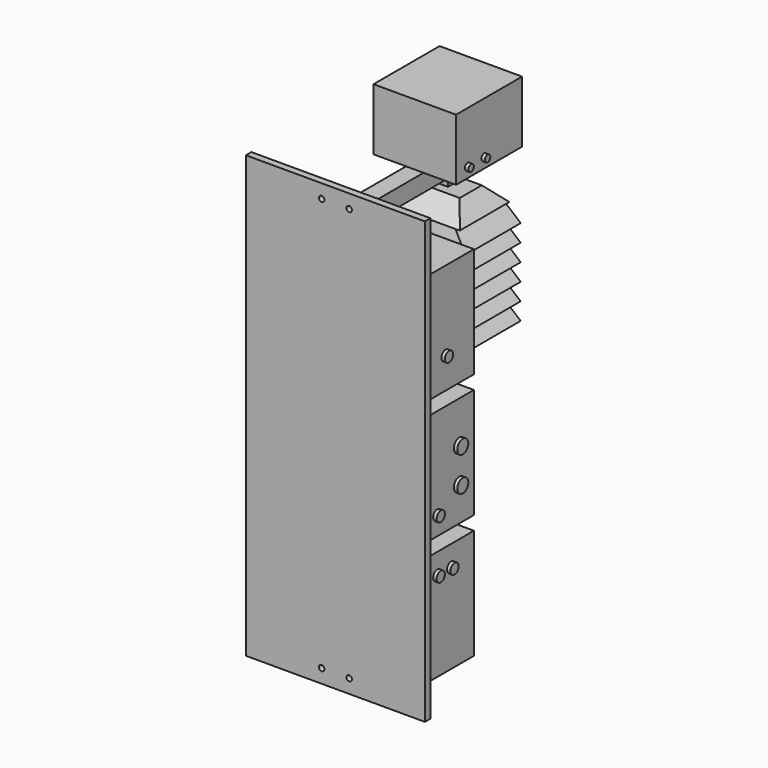
from build123d import *

# Parameters (mm, degrees)
BOX_W                   = 240.03
BOX_H                   = 91.44
BOX_DEPTH               = 160.02
BOX001_W                = 240.03
BOX001_H                = 91.44
BOX001_DEPTH            = 160.02
BOX002_W                = 240.03
BOX002_H                = 91.44
BOX002_DEPTH            = 160.02
BOX003_W                = 119.89
BOX003_H                = 119.89
BOX003_DEPTH            = 89.66
BOX005_W                = 25.4
BOX005_H                = 254
BOX005_DEPTH            = 25.4
BOX018_W                = 15
BOX018_H                = 15
BOX018_DEPTH            = 15
BOX017_W                = 110
BOX017_H                = 120
BOX017_DEPTH            = 46
BOX017_PLACEMENT_ANGLE  = 38.7
BOX016_W                = 110
BOX016_H                = 90
BOX016_DEPTH            = 25
BOX016_PITCH_ANGLE      = -52.3
BOX015_W                = 110
BOX015_H                = 90
BOX015_DEPTH            = 42
BOX015_ROLL_ANGLE       = 45
BOX014_W                = 110
BOX014_H                = 90
BOX014_DEPTH            = 25
BOX014_ROLL_ANGLE       = 45
BOX013_W                = 110
BOX013_H                = 90
BOX013_DEPTH            = 25
CYLINDER_R              = 15
CYLINDER_DEPTH          = 10
CYLINDER001_R           = 10
CYLINDER001_DEPTH       = 10
CYLINDER001_PITCH_ANGLE = 90
CYLINDER002_R           = 10
CYLINDER002_DEPTH       = 10
CYLINDER002_PITCH_ANGLE = 90
CYLINDER003_R           = 7.5
CYLINDER003_DEPTH       = 10
CYLINDER003_PITCH_ANGLE = 90
CYLINDER004_R           = 7.5
CYLINDER004_DEPTH       = 10
CYLINDER004_PITCH_ANGLE = 90
CYLINDER005_R           = 7.5
CYLINDER005_DEPTH       = 10
CYLINDER005_PITCH_ANGLE = 90
CYLINDER006_R           = 7.5
CYLINDER006_DEPTH       = 10
CYLINDER006_PITCH_ANGLE = 90
CYLINDER007_R           = 5
CYLINDER007_DEPTH       = 10
CYLINDER007_PITCH_ANGLE = 90
CYLINDER008_R           = 5
CYLINDER008_DEPTH       = 10
CYLINDER008_PITCH_ANGLE = 90
CYLINDER009_R           = 5
CYLINDER009_DEPTH       = 10
CYLINDER009_PITCH_ANGLE = 90
CYLINDER010_R           = 5
CYLINDER010_DEPTH       = 10
CYLINDER010_PITCH_ANGLE = 90
CYLINDER011_R           = 5
CYLINDER011_DEPTH       = 10
CYLINDER011_PITCH_ANGLE = 90
CYLINDER012_R           = 5
CYLINDER012_DEPTH       = 10
CYLINDER012_PITCH_ANGLE = 90
CYLINDER013_R           = 5
CYLINDER013_DEPTH       = 10
CYLINDER013_PITCH_ANGLE = 90
CYLINDER014_R           = 5
CYLINDER014_DEPTH       = 10
CYLINDER014_PITCH_ANGLE = 90
CYLINDER015_R           = 5
CYLINDER015_DEPTH       = 10
CYLINDER016_R           = 5
CYLINDER016_DEPTH       = 10
BOX026_W                = 200
BOX026_H                = 55
BOX026_DEPTH            = 88
BOX026_ROLL_ANGLE       = 13.5
BOX025_W                = 200
BOX025_H                = 500
BOX025_DEPTH            = 200
BOX025_ROLL_ANGLE       = -13.5
BOX028_W                = 20
BOX028_H                = 500
BOX028_DEPTH            = 200
BOX028_PLACEMENT_ANGLE  = 38.7
BOX024_W                = 135
BOX024_H                = 100
BOX024_DEPTH            = 25
BOX027_W                = 500
BOX027_H                = 500
BOX027_DEPTH            = 500
BOX027_PLACEMENT_ANGLE  = 38.7
BOX031_W                = 200
BOX031_H                = 55
BOX031_DEPTH            = 88
BOX031_ROLL_ANGLE       = 13.5
BOX030_W                = 200
BOX030_H                = 500
BOX030_DEPTH            = 200
BOX030_ROLL_ANGLE       = -13.5
BOX033_W                = 20
BOX033_H                = 500
BOX033_DEPTH            = 200
BOX033_PLACEMENT_ANGLE  = 38.7
BOX029_W                = 135
BOX029_H                = 100
BOX029_DEPTH            = 25
BOX032_W                = 500
BOX032_H                = 500
BOX032_DEPTH            = 500
BOX032_PLACEMENT_ANGLE  = 38.7
BOX036_W                = 200
BOX036_H                = 55
BOX036_DEPTH            = 88
BOX036_ROLL_ANGLE       = 13.5
BOX035_W                = 200
BOX035_H                = 500
BOX035_DEPTH            = 200
BOX035_ROLL_ANGLE       = -13.5
BOX038_W                = 20
BOX038_H                = 500
BOX038_DEPTH            = 200
BOX038_PLACEMENT_ANGLE  = 38.7
BOX034_W                = 135
BOX034_H                = 100
BOX034_DEPTH            = 25
BOX037_W                = 500
BOX037_H                = 500
BOX037_DEPTH            = 500
BOX037_PLACEMENT_ANGLE  = 38.7
BOX012_W                = 200
BOX012_H                = 55
BOX012_DEPTH            = 88
BOX012_ROLL_ANGLE       = 13.5
BOX008_W                = 200
BOX008_H                = 500
BOX008_DEPTH            = 200
BOX008_ROLL_ANGLE       = -13.5
BOX010_W                = 20
BOX010_H                = 500
BOX010_DEPTH            = 200
BOX010_PLACEMENT_ANGLE  = 38.7
BOX009_W                = 135
BOX009_H                = 100
BOX009_DEPTH            = 25
BOX011_W                = 500
BOX011_H                = 500
BOX011_DEPTH            = 500
BOX011_PLACEMENT_ANGLE  = 38.7
BOX023_W                = 200
BOX023_H                = 55
BOX023_DEPTH            = 88
BOX023_ROLL_ANGLE       = 13.5
BOX020_W                = 200
BOX020_H                = 500
BOX020_DEPTH            = 200
BOX020_ROLL_ANGLE       = -13.5
BOX022_W                = 20
BOX022_H                = 500
BOX022_DEPTH            = 200
BOX022_PLACEMENT_ANGLE  = 38.7
BOX019_W                = 135
BOX019_H                = 100
BOX019_DEPTH            = 25
BOX021_W                = 500
BOX021_H                = 500
BOX021_DEPTH            = 500
BOX021_PLACEMENT_ANGLE  = 38.7
BOX039_W                = 50
BOX039_H                = 10
BOX039_DEPTH            = 40
CYLINDER018_R           = 4
CYLINDER018_DEPTH       = 10
CYLINDER018_ROLL_ANGLE  = 90
CYLINDER017_R           = 4
CYLINDER017_DEPTH       = 10
CYLINDER017_ROLL_ANGLE  = 90
BOX006_W                = 260.03
BOX006_H                = 10
BOX006_DEPTH            = 640


with BuildPart() as power_module:
    # Box → Box (new body)
    with BuildSketch(Plane.XY):
        with Locations((120.015, 45.72)):
            Rectangle(BOX_W, BOX_H)
    extrude(amount=BOX_DEPTH)


with BuildPart() as main_module:
    # Box001 → Box001 (new body)
    with BuildSketch(Plane.XY.offset(180)):
        with Locations((120.015, 45.72)):
            Rectangle(BOX001_W, BOX001_H)
    extrude(amount=BOX001_DEPTH)


with BuildPart() as ozone_module:
    # Box002 → Box002 (new body)
    with BuildSketch(Plane.XY.offset(360)):
        with Locations((120.015, 45.72)):
            Rectangle(BOX002_W, BOX002_H)
    extrude(amount=BOX002_DEPTH)


with BuildPart() as light_module:
    # Box003 → Box003 (new body)
    with BuildSketch(Plane(origin=(60.05, 134.1, 565.4), x_dir=(1, 0, 0), z_dir=(0, 0, 1))):
        with Locations((59.945, 59.945)):
            Rectangle(BOX003_W, BOX003_H)
    extrude(amount=BOX003_DEPTH)


with BuildPart() as railing:
    # Box005 → Box005 (new body)
    with BuildSketch(Plane(origin=(107.3, 0, 540), x_dir=(1, 0, 0), z_dir=(0, 0, 1))):
        with Locations((12.7, 127)):
            Rectangle(BOX005_W, BOX005_H)
    extrude(amount=BOX005_DEPTH)


with BuildPart() as cube009:
    # Box018 → Box018 (new body)
    with BuildSketch(Plane(origin=(112.5, 185, 525), x_dir=(1, 0, 0), z_dir=(0, 0, 1))):
        with Locations((7.5, 7.5)):
            Rectangle(BOX018_W, BOX018_H)
    extrude(amount=BOX018_DEPTH)


with BuildPart() as cube008:
    # Box017 → Box017 (new body)
    with BuildSketch(Plane.XY):
        with Locations((55, 60)):
            Rectangle(BOX017_W, BOX017_H)
    extrude(amount=BOX017_DEPTH)


with BuildPart() as cube008_1:
    # Box017 placement: moved
    add(cube008.part.moved(Location((421, -226, 0))).rotate(Axis((421, -226, 0), (0, -1, 0)), BOX017_PLACEMENT_ANGLE))


with BuildPart() as cube007:
    # Box016 → Box016 (new body)
    with BuildSketch(Plane.XY):
        with Locations((55, 45)):
            Rectangle(BOX016_W, BOX016_H)
    extrude(amount=BOX016_DEPTH)


with BuildPart() as cube007_1:
    # Box016 pitch: moved
    add(cube007.part.rotate(Axis((0, 0, 0), (0, 1, 0)), BOX016_PITCH_ANGLE))


with BuildPart() as cube007_2:
    # Box016 placement: moved
    add(cube007_1.part.moved(Location((311, -226, 0))))


with BuildPart() as cube006:
    # Box015 → Box015 (new body)
    with BuildSketch(Plane.XY):
        with Locations((55, 45)):
            Rectangle(BOX015_W, BOX015_H)
    extrude(amount=BOX015_DEPTH)


with BuildPart() as cube006_1:
    # Box015 roll: moved
    add(cube006.part.rotate(Axis((0, 0, 0), (1, 0, 0)), BOX015_ROLL_ANGLE))


with BuildPart() as cube006_2:
    # Box015 placement: moved
    add(cube006_1.part.moved(Location((311, -136, 0))))


with BuildPart() as cube005:
    # Box014 → Box014 (new body)
    with BuildSketch(Plane.XY):
        with Locations((55, 45)):
            Rectangle(BOX014_W, BOX014_H)
    extrude(amount=BOX014_DEPTH)


with BuildPart() as cube005_1:
    # Box014 roll: moved
    add(cube005.part.rotate(Axis((0, 0, 0), (1, 0, 0)), BOX014_ROLL_ANGLE))


with BuildPart() as cube005_2:
    # Box014 placement: moved
    add(cube005_1.part.moved(Location((311, -226, 0))))


with BuildPart() as obj1:
    # Box013 → Box013 (new body)
    with BuildSketch(Plane(origin=(311, -226, 0), x_dir=(1, 0, 0), z_dir=(0, 0, 1))):
        with Locations((55, 45)):
            Rectangle(BOX013_W, BOX013_H)
    extrude(amount=BOX013_DEPTH)

    # Cut002: cut Cube005
    add(cube005_2.part, mode=Mode.SUBTRACT)

    # Cut003: cut Cube006
    add(cube006_2.part, mode=Mode.SUBTRACT)

    # Cut004: cut Cube007
    add(cube007_2.part, mode=Mode.SUBTRACT)

    # Cut005: cut Cube008
    add(cube008_1.part, mode=Mode.SUBTRACT)


with BuildPart() as obj1_1:
    # Cut005 placement: moved
    add(obj1.part.moved(Location((-246, 373, 500))))


with BuildPart() as cylinder:
    # Cylinder → Cylinder (new body)
    with BuildSketch(Plane(origin=(185, 53, 0), x_dir=(-1, 0, 0), z_dir=(0, 0, -1))):
        Circle(CYLINDER_R)
    extrude(amount=CYLINDER_DEPTH)


with BuildPart() as usb:
    # Cylinder001 → Cylinder001 (new body)
    with BuildSketch(Plane.XY):
        Circle(CYLINDER001_R)
    extrude(amount=CYLINDER001_DEPTH)


with BuildPart() as usb_1:
    # Cylinder001 pitch: moved
    add(usb.part.rotate(Axis((0, 0, 0), (0, 1, 0)), CYLINDER001_PITCH_ANGLE))


with BuildPart() as usb_2:
    # Cylinder001 placement: moved
    add(usb_1.part.moved(Location((235, 65, 230))))


with BuildPart() as hdmi:
    # Cylinder002 → Cylinder002 (new body)
    with BuildSketch(Plane.XY):
        Circle(CYLINDER002_R)
    extrude(amount=CYLINDER002_DEPTH)


with BuildPart() as hdmi_1:
    # Cylinder002 pitch: moved
    add(hdmi.part.rotate(Axis((0, 0, 0), (0, 1, 0)), CYLINDER002_PITCH_ANGLE))


with BuildPart() as hdmi_2:
    # Cylinder002 placement: moved
    add(hdmi_1.part.moved(Location((235, 65, 280))))


with BuildPart() as f_12v:
    # Cylinder003 → Cylinder003 (new body)
    with BuildSketch(Plane.XY):
        Circle(CYLINDER003_R)
    extrude(amount=CYLINDER003_DEPTH)


with BuildPart() as f_12v_1:
    # Cylinder003 pitch: moved
    add(f_12v.part.rotate(Axis((0, 0, 0), (0, 1, 0)), CYLINDER003_PITCH_ANGLE))


with BuildPart() as f_12v_2:
    # Cylinder003 placement: moved
    add(f_12v_1.part.moved(Location((235, 50, 130))))


with BuildPart() as f_5v:
    # Cylinder004 → Cylinder004 (new body)
    with BuildSketch(Plane.XY):
        Circle(CYLINDER004_R)
    extrude(amount=CYLINDER004_DEPTH)


with BuildPart() as f_5v_1:
    # Cylinder004 pitch: moved
    add(f_5v.part.rotate(Axis((0, 0, 0), (0, 1, 0)), CYLINDER004_PITCH_ANGLE))


with BuildPart() as f_5v_2:
    # Cylinder004 placement: moved
    add(f_5v_1.part.moved(Location((235, 25, 130))))


with BuildPart() as cylinder005:
    # Cylinder005 → Cylinder005 (new body)
    with BuildSketch(Plane.XY):
        Circle(CYLINDER005_R)
    extrude(amount=CYLINDER005_DEPTH)


with BuildPart() as cylinder005_1:
    # Cylinder005 pitch: moved
    add(cylinder005.part.rotate(Axis((0, 0, 0), (0, 1, 0)), CYLINDER005_PITCH_ANGLE))


with BuildPart() as cylinder005_2:
    # Cylinder005 placement: moved
    add(cylinder005_1.part.moved(Location((235, 25, 207))))


with BuildPart() as cylinder006:
    # Cylinder006 → Cylinder006 (new body)
    with BuildSketch(Plane.XY):
        Circle(CYLINDER006_R)
    extrude(amount=CYLINDER006_DEPTH)


with BuildPart() as cylinder006_1:
    # Cylinder006 pitch: moved
    add(cylinder006.part.rotate(Axis((0, 0, 0), (0, 1, 0)), CYLINDER006_PITCH_ANGLE))


with BuildPart() as cylinder006_2:
    # Cylinder006 placement: moved
    add(cylinder006_1.part.moved(Location((235, 40, 405))))


with BuildPart() as lightmoduleusb:
    # Cylinder007 → Cylinder007 (new body)
    with BuildSketch(Plane.XY):
        Circle(CYLINDER007_R)
    extrude(amount=CYLINDER007_DEPTH)


with BuildPart() as lightmoduleusb_1:
    # Cylinder007 pitch: moved
    add(lightmoduleusb.part.rotate(Axis((0, 0, 0), (0, 1, 0)), CYLINDER007_PITCH_ANGLE))


with BuildPart() as lightmoduleusb_2:
    # Cylinder007 placement: moved
    add(lightmoduleusb_1.part.moved(Location((-5, 75, 310))))


with BuildPart() as obj2:
    # Cylinder008 → Cylinder008 (new body)
    with BuildSketch(Plane.XY):
        Circle(CYLINDER008_R)
    extrude(amount=CYLINDER008_DEPTH)


with BuildPart() as obj2_1:
    # Cylinder008 pitch: moved
    add(obj2.part.rotate(Axis((0, 0, 0), (0, 1, 0)), CYLINDER008_PITCH_ANGLE))


with BuildPart() as obj2_2:
    # Cylinder008 placement: moved
    add(obj2_1.part.moved(Location((-5, 55, 260))))


with BuildPart() as obj3:
    # Cylinder009 → Cylinder009 (new body)
    with BuildSketch(Plane.XY):
        Circle(CYLINDER009_R)
    extrude(amount=CYLINDER009_DEPTH)


with BuildPart() as obj3_1:
    # Cylinder009 pitch: moved
    add(obj3.part.rotate(Axis((0, 0, 0), (0, 1, 0)), CYLINDER009_PITCH_ANGLE))


with BuildPart() as obj3_2:
    # Cylinder009 placement: moved
    add(obj3_1.part.moved(Location((-5, 45, 235))))


with BuildPart() as obj4:
    # Cylinder010 → Cylinder010 (new body)
    with BuildSketch(Plane.XY):
        Circle(CYLINDER010_R)
    extrude(amount=CYLINDER010_DEPTH)


with BuildPart() as obj4_1:
    # Cylinder010 pitch: moved
    add(obj4.part.rotate(Axis((0, 0, 0), (0, 1, 0)), CYLINDER010_PITCH_ANGLE))


with BuildPart() as obj4_2:
    # Cylinder010 placement: moved
    add(obj4_1.part.moved(Location((-5, 35, 210))))


with BuildPart() as camerausb:
    # Cylinder011 → Cylinder011 (new body)
    with BuildSketch(Plane.XY):
        Circle(CYLINDER011_R)
    extrude(amount=CYLINDER011_DEPTH)


with BuildPart() as camerausb_1:
    # Cylinder011 pitch: moved
    add(camerausb.part.rotate(Axis((0, 0, 0), (0, 1, 0)), CYLINDER011_PITCH_ANGLE))


with BuildPart() as camerausb_2:
    # Cylinder011 placement: moved
    add(camerausb_1.part.moved(Location((-5, 65, 285))))


with BuildPart() as cylinder012:
    # Cylinder012 → Cylinder012 (new body)
    with BuildSketch(Plane.XY):
        Circle(CYLINDER012_R)
    extrude(amount=CYLINDER012_DEPTH)


with BuildPart() as cylinder012_1:
    # Cylinder012 pitch: moved
    add(cylinder012.part.rotate(Axis((0, 0, 0), (0, 1, 0)), CYLINDER012_PITCH_ANGLE))


with BuildPart() as cylinder012_2:
    # Cylinder012 placement: moved
    add(cylinder012_1.part.moved(Location((-5, 35, 380))))


with BuildPart() as cylinder013:
    # Cylinder013 → Cylinder013 (new body)
    with BuildSketch(Plane.XY):
        Circle(CYLINDER013_R)
    extrude(amount=CYLINDER013_DEPTH)


with BuildPart() as cylinder013_1:
    # Cylinder013 pitch: moved
    add(cylinder013.part.rotate(Axis((0, 0, 0), (0, 1, 0)), CYLINDER013_PITCH_ANGLE))


with BuildPart() as cylinder013_2:
    # Cylinder013 placement: moved
    add(cylinder013_1.part.moved(Location((175, 155, 580))))


with BuildPart() as cylinder014:
    # Cylinder014 → Cylinder014 (new body)
    with BuildSketch(Plane.XY):
        Circle(CYLINDER014_R)
    extrude(amount=CYLINDER014_DEPTH)


with BuildPart() as cylinder014_1:
    # Cylinder014 pitch: moved
    add(cylinder014.part.rotate(Axis((0, 0, 0), (0, 1, 0)), CYLINDER014_PITCH_ANGLE))


with BuildPart() as cylinder014_2:
    # Cylinder014 placement: moved
    add(cylinder014_1.part.moved(Location((175, 185, 580))))


with BuildPart() as cylinder015:
    # Cylinder015 → Cylinder015 (new body)
    with BuildSketch(Plane(origin=(145, 195, 355), x_dir=(-1, 0, 0), z_dir=(0, 0, -1))):
        Circle(CYLINDER015_R)
    extrude(amount=CYLINDER015_DEPTH)


with BuildPart() as cylinder016:
    # Cylinder016 → Cylinder016 (new body)
    with BuildSketch(Plane(origin=(95, 195, 355), x_dir=(-1, 0, 0), z_dir=(0, 0, -1))):
        Circle(CYLINDER016_R)
    extrude(amount=CYLINDER016_DEPTH)


with BuildPart() as cube015:
    # Box026 → Box026 (new body)
    with BuildSketch(Plane.XY):
        with Locations((100, 27.5)):
            Rectangle(BOX026_W, BOX026_H)
    extrude(amount=BOX026_DEPTH)


with BuildPart() as cube015_1:
    # Box026 roll: moved
    add(cube015.part.rotate(Axis((0, 0, 0), (1, 0, 0)), BOX026_ROLL_ANGLE))


with BuildPart() as cube015_2:
    # Box026 placement: moved
    add(cube015_1.part.moved(Location((-33, -126, 0))))


with BuildPart() as cube014:
    # Box025 → Box025 (new body)
    with BuildSketch(Plane.XY):
        with Locations((100, 250)):
            Rectangle(BOX025_W, BOX025_H)
    extrude(amount=BOX025_DEPTH)


with BuildPart() as cube014_1:
    # Box025 roll: moved
    add(cube014.part.rotate(Axis((0, 0, 0), (1, 0, 0)), BOX025_ROLL_ANGLE))


with BuildPart() as cube014_2:
    # Box025 placement: moved
    add(cube014_1.part.moved(Location((-22, -226, 0))))


with BuildPart() as cube017:
    # Box028 → Box028 (new body)
    with BuildSketch(Plane.XY):
        with Locations((10, 250)):
            Rectangle(BOX028_W, BOX028_H)
    extrude(amount=BOX028_DEPTH)


with BuildPart() as cube017_1:
    # Box028 placement: moved
    add(cube017.part.moved(Location((135, -236, 0))).rotate(Axis((135, -236, 0), (0, -1, 0)), BOX028_PLACEMENT_ANGLE))


with BuildPart() as cut008:
    # Box024 → Box024 (new body)
    with BuildSketch(Plane(origin=(0, -226, 0), x_dir=(1, 0, 0), z_dir=(0, 0, 1))):
        with Locations((67.5, 50)):
            Rectangle(BOX024_W, BOX024_H)
    extrude(amount=BOX024_DEPTH)

    # Cut008: cut Cube017
    add(cube017_1.part, mode=Mode.SUBTRACT)


with BuildPart() as enclosure_common002:
    # Box027 → Box027 (new body)
    with BuildSketch(Plane.XY):
        with Locations((250, 250)):
            Rectangle(BOX027_W, BOX027_H)
    extrude(amount=BOX027_DEPTH)


with BuildPart() as enclosure_common002_1:
    # Box027 placement: moved
    add(enclosure_common002.part.moved(Location((0, -236, 0))).rotate(Axis((0, -236, 0), (0, 1, 0)), BOX027_PLACEMENT_ANGLE))

    # Common005: intersect Cut008
    add(cut008.part, mode=Mode.INTERSECT)

    # Common004: intersect Cube014
    add(cube014_2.part, mode=Mode.INTERSECT)

    # Cut009: cut Cube015
    add(cube015_2.part, mode=Mode.SUBTRACT)


with BuildPart() as enclosure_common002_2:
    # Cut009 placement: moved
    add(enclosure_common002_1.part.moved(Location((52.5, 368, 425))))


with BuildPart() as cube019:
    # Box031 → Box031 (new body)
    with BuildSketch(Plane.XY):
        with Locations((100, 27.5)):
            Rectangle(BOX031_W, BOX031_H)
    extrude(amount=BOX031_DEPTH)


with BuildPart() as cube019_1:
    # Box031 roll: moved
    add(cube019.part.rotate(Axis((0, 0, 0), (1, 0, 0)), BOX031_ROLL_ANGLE))


with BuildPart() as cube019_2:
    # Box031 placement: moved
    add(cube019_1.part.moved(Location((-33, -126, 0))))


with BuildPart() as cube018:
    # Box030 → Box030 (new body)
    with BuildSketch(Plane.XY):
        with Locations((100, 250)):
            Rectangle(BOX030_W, BOX030_H)
    extrude(amount=BOX030_DEPTH)


with BuildPart() as cube018_1:
    # Box030 roll: moved
    add(cube018.part.rotate(Axis((0, 0, 0), (1, 0, 0)), BOX030_ROLL_ANGLE))


with BuildPart() as cube018_2:
    # Box030 placement: moved
    add(cube018_1.part.moved(Location((-22, -226, 0))))


with BuildPart() as cube021:
    # Box033 → Box033 (new body)
    with BuildSketch(Plane.XY):
        with Locations((10, 250)):
            Rectangle(BOX033_W, BOX033_H)
    extrude(amount=BOX033_DEPTH)


with BuildPart() as cube021_1:
    # Box033 placement: moved
    add(cube021.part.moved(Location((135, -236, 0))).rotate(Axis((135, -236, 0), (0, -1, 0)), BOX033_PLACEMENT_ANGLE))


with BuildPart() as cut010:
    # Box029 → Box029 (new body)
    with BuildSketch(Plane(origin=(0, -226, 0), x_dir=(1, 0, 0), z_dir=(0, 0, 1))):
        with Locations((67.5, 50)):
            Rectangle(BOX029_W, BOX029_H)
    extrude(amount=BOX029_DEPTH)

    # Cut010: cut Cube021
    add(cube021_1.part, mode=Mode.SUBTRACT)


with BuildPart() as enclosure_common003:
    # Box032 → Box032 (new body)
    with BuildSketch(Plane.XY):
        with Locations((250, 250)):
            Rectangle(BOX032_W, BOX032_H)
    extrude(amount=BOX032_DEPTH)


with BuildPart() as enclosure_common003_1:
    # Box032 placement: moved
    add(enclosure_common003.part.moved(Location((0, -236, 0))).rotate(Axis((0, -236, 0), (0, 1, 0)), BOX032_PLACEMENT_ANGLE))

    # Common007: intersect Cut010
    add(cut010.part, mode=Mode.INTERSECT)

    # Common006: intersect Cube018
    add(cube018_2.part, mode=Mode.INTERSECT)

    # Cut011: cut Cube019
    add(cube019_2.part, mode=Mode.SUBTRACT)


with BuildPart() as enclosure_common003_2:
    # Cut011 placement: moved
    add(enclosure_common003_1.part.moved(Location((52.5, 368, 400))))


with BuildPart() as cube023:
    # Box036 → Box036 (new body)
    with BuildSketch(Plane.XY):
        with Locations((100, 27.5)):
            Rectangle(BOX036_W, BOX036_H)
    extrude(amount=BOX036_DEPTH)


with BuildPart() as cube023_1:
    # Box036 roll: moved
    add(cube023.part.rotate(Axis((0, 0, 0), (1, 0, 0)), BOX036_ROLL_ANGLE))


with BuildPart() as cube023_2:
    # Box036 placement: moved
    add(cube023_1.part.moved(Location((-33, -126, 0))))


with BuildPart() as cube022:
    # Box035 → Box035 (new body)
    with BuildSketch(Plane.XY):
        with Locations((100, 250)):
            Rectangle(BOX035_W, BOX035_H)
    extrude(amount=BOX035_DEPTH)


with BuildPart() as cube022_1:
    # Box035 roll: moved
    add(cube022.part.rotate(Axis((0, 0, 0), (1, 0, 0)), BOX035_ROLL_ANGLE))


with BuildPart() as cube022_2:
    # Box035 placement: moved
    add(cube022_1.part.moved(Location((-22, -226, 0))))


with BuildPart() as cube025:
    # Box038 → Box038 (new body)
    with BuildSketch(Plane.XY):
        with Locations((10, 250)):
            Rectangle(BOX038_W, BOX038_H)
    extrude(amount=BOX038_DEPTH)


with BuildPart() as cube025_1:
    # Box038 placement: moved
    add(cube025.part.moved(Location((135, -236, 0))).rotate(Axis((135, -236, 0), (0, -1, 0)), BOX038_PLACEMENT_ANGLE))


with BuildPart() as cut012:
    # Box034 → Box034 (new body)
    with BuildSketch(Plane(origin=(0, -226, 0), x_dir=(1, 0, 0), z_dir=(0, 0, 1))):
        with Locations((67.5, 50)):
            Rectangle(BOX034_W, BOX034_H)
    extrude(amount=BOX034_DEPTH)

    # Cut012: cut Cube025
    add(cube025_1.part, mode=Mode.SUBTRACT)


with BuildPart() as enclosure_common004:
    # Box037 → Box037 (new body)
    with BuildSketch(Plane.XY):
        with Locations((250, 250)):
            Rectangle(BOX037_W, BOX037_H)
    extrude(amount=BOX037_DEPTH)


with BuildPart() as enclosure_common004_1:
    # Box037 placement: moved
    add(enclosure_common004.part.moved(Location((0, -236, 0))).rotate(Axis((0, -236, 0), (0, 1, 0)), BOX037_PLACEMENT_ANGLE))

    # Common009: intersect Cut012
    add(cut012.part, mode=Mode.INTERSECT)

    # Common008: intersect Cube022
    add(cube022_2.part, mode=Mode.INTERSECT)

    # Cut013: cut Cube023
    add(cube023_2.part, mode=Mode.SUBTRACT)


with BuildPart() as enclosure_common004_2:
    # Cut013 placement: moved
    add(enclosure_common004_1.part.moved(Location((52.5, 368, 375))))


with BuildPart() as cube003:
    # Box012 → Box012 (new body)
    with BuildSketch(Plane.XY):
        with Locations((100, 27.5)):
            Rectangle(BOX012_W, BOX012_H)
    extrude(amount=BOX012_DEPTH)


with BuildPart() as cube003_1:
    # Box012 roll: moved
    add(cube003.part.rotate(Axis((0, 0, 0), (1, 0, 0)), BOX012_ROLL_ANGLE))


with BuildPart() as cube003_2:
    # Box012 placement: moved
    add(cube003_1.part.moved(Location((-33, -126, 0))))


with BuildPart() as cube001:
    # Box008 → Box008 (new body)
    with BuildSketch(Plane.XY):
        with Locations((100, 250)):
            Rectangle(BOX008_W, BOX008_H)
    extrude(amount=BOX008_DEPTH)


with BuildPart() as cube001_1:
    # Box008 roll: moved
    add(cube001.part.rotate(Axis((0, 0, 0), (1, 0, 0)), BOX008_ROLL_ANGLE))


with BuildPart() as cube001_2:
    # Box008 placement: moved
    add(cube001_1.part.moved(Location((-22, -226, 0))))


with BuildPart() as cube:
    # Box010 → Box010 (new body)
    with BuildSketch(Plane.XY):
        with Locations((10, 250)):
            Rectangle(BOX010_W, BOX010_H)
    extrude(amount=BOX010_DEPTH)


with BuildPart() as cube_1:
    # Box010 placement: moved
    add(cube.part.moved(Location((135, -236, 0))).rotate(Axis((135, -236, 0), (0, -1, 0)), BOX010_PLACEMENT_ANGLE))


with BuildPart() as cut:
    # Box009 → Box009 (new body)
    with BuildSketch(Plane(origin=(0, -226, 0), x_dir=(1, 0, 0), z_dir=(0, 0, 1))):
        with Locations((67.5, 50)):
            Rectangle(BOX009_W, BOX009_H)
    extrude(amount=BOX009_DEPTH)

    # Cut: cut Cube
    add(cube_1.part, mode=Mode.SUBTRACT)


with BuildPart() as common001:
    # Box011 → Box011 (new body)
    with BuildSketch(Plane.XY):
        with Locations((250, 250)):
            Rectangle(BOX011_W, BOX011_H)
    extrude(amount=BOX011_DEPTH)


with BuildPart() as common001_1:
    # Box011 placement: moved
    add(common001.part.moved(Location((0, -236, 0))).rotate(Axis((0, -236, 0), (0, 1, 0)), BOX011_PLACEMENT_ANGLE))

    # Common: intersect Cut
    add(cut.part, mode=Mode.INTERSECT)

    # Common001: intersect Cube001
    add(cube001_2.part, mode=Mode.INTERSECT)


with BuildPart() as enclosure_common005:
    # Cut014 base: copy of Common001
    add(common001_1.part)

    # Cut014: cut Cube003
    add(cube003_2.part, mode=Mode.SUBTRACT)


with BuildPart() as enclosure_common005_1:
    # Cut014 placement: moved
    add(enclosure_common005.part.moved(Location((52.5, 368, 350))))


with BuildPart() as enclosure_common000:
    # Cut001 base: copy of Common001
    add(common001_1.part)

    # Cut001: cut Cube003
    add(cube003_2.part, mode=Mode.SUBTRACT)


with BuildPart() as enclosure_common000_1:
    # Cut001 placement: moved
    add(enclosure_common000.part.moved(Location((52.5, 368, 475))))


with BuildPart() as cube013:
    # Box023 → Box023 (new body)
    with BuildSketch(Plane.XY):
        with Locations((100, 27.5)):
            Rectangle(BOX023_W, BOX023_H)
    extrude(amount=BOX023_DEPTH)


with BuildPart() as cube013_1:
    # Box023 roll: moved
    add(cube013.part.rotate(Axis((0, 0, 0), (1, 0, 0)), BOX023_ROLL_ANGLE))


with BuildPart() as cube013_2:
    # Box023 placement: moved
    add(cube013_1.part.moved(Location((-33, -126, 0))))


with BuildPart() as cube010:
    # Box020 → Box020 (new body)
    with BuildSketch(Plane.XY):
        with Locations((100, 250)):
            Rectangle(BOX020_W, BOX020_H)
    extrude(amount=BOX020_DEPTH)


with BuildPart() as cube010_1:
    # Box020 roll: moved
    add(cube010.part.rotate(Axis((0, 0, 0), (1, 0, 0)), BOX020_ROLL_ANGLE))


with BuildPart() as cube010_2:
    # Box020 placement: moved
    add(cube010_1.part.moved(Location((-22, -226, 0))))


with BuildPart() as cube012:
    # Box022 → Box022 (new body)
    with BuildSketch(Plane.XY):
        with Locations((10, 250)):
            Rectangle(BOX022_W, BOX022_H)
    extrude(amount=BOX022_DEPTH)


with BuildPart() as cube012_1:
    # Box022 placement: moved
    add(cube012.part.moved(Location((135, -236, 0))).rotate(Axis((135, -236, 0), (0, -1, 0)), BOX022_PLACEMENT_ANGLE))


with BuildPart() as cut007:
    # Box019 → Box019 (new body)
    with BuildSketch(Plane(origin=(0, -226, 0), x_dir=(1, 0, 0), z_dir=(0, 0, 1))):
        with Locations((67.5, 50)):
            Rectangle(BOX019_W, BOX019_H)
    extrude(amount=BOX019_DEPTH)

    # Cut007: cut Cube012
    add(cube012_1.part, mode=Mode.SUBTRACT)


with BuildPart() as fusion001:
    # Box021 → Box021 (new body)
    with BuildSketch(Plane.XY):
        with Locations((250, 250)):
            Rectangle(BOX021_W, BOX021_H)
    extrude(amount=BOX021_DEPTH)


with BuildPart() as fusion001_1:
    # Box021 placement: moved
    add(fusion001.part.moved(Location((0, -236, 0))).rotate(Axis((0, -236, 0), (0, 1, 0)), BOX021_PLACEMENT_ANGLE))

    # Common002: intersect Cut007
    add(cut007.part, mode=Mode.INTERSECT)

    # Common003: intersect Cube010
    add(cube010_2.part, mode=Mode.INTERSECT)

    # Cut006: cut Cube013
    add(cube013_2.part, mode=Mode.SUBTRACT)


with BuildPart() as fusion001_2:
    # Cut006 placement: moved
    add(fusion001_1.part.moved(Location((52.5, 368, 450))))

    # Fusion001: union Enclosure Common002, Enclosure Common003, Enclosure Common004, Enclosure Common005, Enclosure Common000
    add(enclosure_common002_2.part)
    add(enclosure_common003_2.part)
    add(enclosure_common004_2.part)
    add(enclosure_common005_1.part)
    add(enclosure_common000_1.part)


with BuildPart() as obj5:
    # Box039 → Box039 (new body)
    with BuildSketch(Plane(origin=(10, 85, 190), x_dir=(1, 0, 0), z_dir=(0, 0, 1))):
        with Locations((25, 5)):
            Rectangle(BOX039_W, BOX039_H)
    extrude(amount=BOX039_DEPTH)


with BuildPart() as cutout001:
    # Cylinder018 → Cylinder018 (new body)
    with BuildSketch(Plane.XY):
        Circle(CYLINDER018_R)
    extrude(amount=CYLINDER018_DEPTH)


with BuildPart() as cutout001_1:
    # Cylinder018 roll: moved
    add(cutout001.part.rotate(Axis((0, 0, 0), (1, 0, 0)), CYLINDER018_ROLL_ANGLE))


with BuildPart() as cutout001_2:
    # Cylinder018 placement: moved
    add(cutout001_1.part.moved(Location((100, 0, -20))))


with BuildPart() as cutout:
    # Cylinder017 → Cylinder017 (new body)
    with BuildSketch(Plane.XY):
        Circle(CYLINDER017_R)
    extrude(amount=CYLINDER017_DEPTH)


with BuildPart() as cutout_1:
    # Cylinder017 roll: moved
    add(cutout.part.rotate(Axis((0, 0, 0), (1, 0, 0)), CYLINDER017_ROLL_ANGLE))


with BuildPart() as cutout_2:
    # Cylinder017 placement: moved
    add(cutout_1.part.moved(Location((140, 0, -20))))


with BuildPart() as cutout2:
    # Fusion002 base: copy of CutOut
    add(cutout_2.part)

    # Fusion002: union CutOut001
    add(cutout001_2.part)


with BuildPart() as cutout2_1:
    # Fusion002 placement: moved
    add(cutout2.part.moved(Location((0, 0, 600))))


with BuildPart() as cutout1:
    # Fusion base: copy of CutOut
    add(cutout_2.part)

    # Fusion: union CutOut001
    add(cutout001_2.part)


with BuildPart() as cut016:
    # Box006 → Box006 (new body)
    with BuildSketch(Plane(origin=(-10, -10, -40), x_dir=(1, 0, 0), z_dir=(0, 0, 1))):
        with Locations((130.015, 5)):
            Rectangle(BOX006_W, BOX006_H)
    extrude(amount=BOX006_DEPTH)

    # Cut015: cut Cutout1
    add(cutout1.part, mode=Mode.SUBTRACT)

    # Cut016: cut Cutout2
    add(cutout2_1.part, mode=Mode.SUBTRACT)


solid = Compound([power_module.part, main_module.part, ozone_module.part, light_module.part, railing.part, cube009.part, obj1_1.part, cylinder.part, usb_2.part, hdmi_2.part, f_12v_2.part, f_5v_2.part, cylinder005_2.part, cylinder006_2.part, lightmoduleusb_2.part, obj2_2.part, obj3_2.part, obj4_2.part, camerausb_2.part, cylinder012_2.part, cylinder013_2.part, cylinder014_2.part, cylinder015.part, cylinder016.part, fusion001_2.part, obj5.part, cut016.part])
